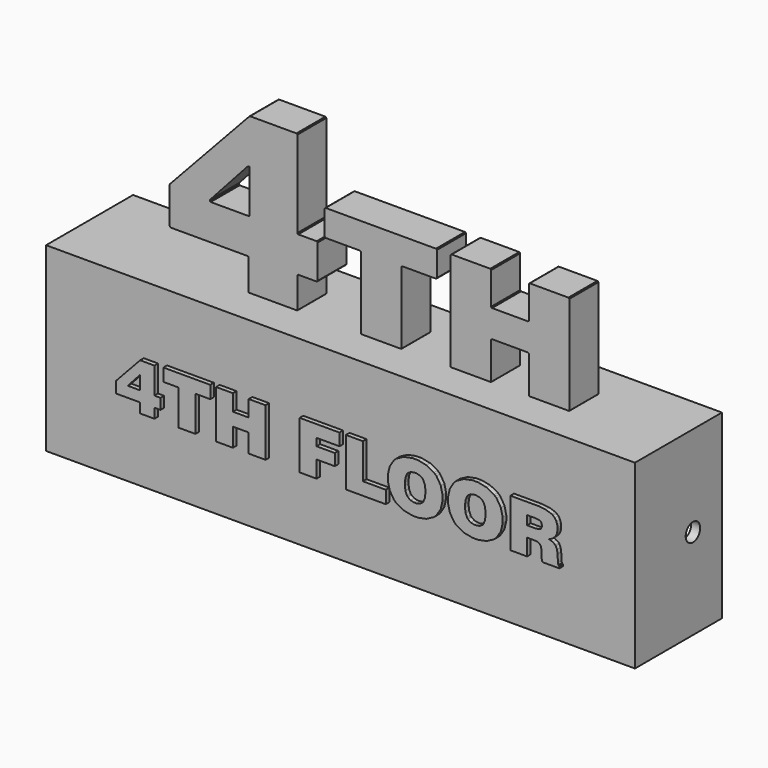
from build123d import *

# Parameters (mm, degrees)
F1_DEPTH      = 19.05
F1_DEPTH_BACK = 19.05
F2_DEPTH      = 6.35
F2_DEPTH_BACK = 6.35
F3_DEPTH      = 20.6375
F4_W          = 200.025
F4_H          = 57.15
F5_DEPTH      = 37.465
F6_W          = 200.025
F6_H          = 57.15
F7_DEPTH      = 0.635
F8_R          = 3.175
F9_DEPTH      = 206.376


with BuildPart() as f1:
    # F0 (on Front) → F1 (new body, two sides)
    with BuildSketch(Plane.XZ) as f1_sk:
        Polygon((-42.284904, 4.327271), (-42.3631372574, 4.469003), (-103.1875, 4.469003), (-103.1875, -59.030997), (103.1875, -59.030997), (103.1875, 4.469003), (69.9779450433, 4.469003), (69.89826, 4.325747), (69.693028, 4.210177), (69.62521, 4.210177), (56.223916, 4.210177), (56.155082, 4.210177), (55.951374, 4.325747), (55.8723972682, 4.469003), (42.5992081211, 4.469003), (42.519346, 4.325747), (42.315384, 4.210177), (42.248074, 4.210177), (28.846526, 4.210177), (28.777438, 4.210177), (28.572206, 4.325747), (28.4934063461, 4.469003), (11.1413081211, 4.469003), (11.061446, 4.325747), (10.857484, 4.210177), (10.790174, 4.210177), (-2.611374, 4.210177), (-2.680462, 4.210177), (-2.885694, 4.325747), (-2.9644936539, 4.469003), (-25.3306385099, 4.469003), (-25.409398, 4.327271), (-25.61336, 4.212971), (-25.681178, 4.212971), (-42.010838, 4.212971), (-42.079672, 4.212971), align=None)
        Polygon((-63.960248, -35.682809), (-69.082412, -35.682809), (-69.082412, -32.266763), (-77.35062, -32.266763), (-77.35062, -28.285313), (-68.95846, -19.266281), (-63.960248, -19.266281), (-63.960248, -28.539059), (-61.828426, -28.539059), (-61.828426, -32.266763), (-63.960248, -32.266763), align=None, mode=Mode.SUBTRACT)
        Polygon((-49.580546, -35.682809), (-55.506112, -35.682809), (-55.506112, -23.283291), (-60.817252, -23.283291), (-60.817252, -18.846165), (-44.379896, -18.846165), (-44.379896, -23.283291), (-49.580546, -23.283291), align=None, mode=Mode.SUBTRACT)
        Polygon((-36.428426, -35.682809), (-42.354246, -35.682809), (-42.354246, -18.846165), (-36.428426, -18.846165), (-36.428426, -24.562181), (-30.90926, -24.562181), (-30.90926, -18.846165), (-24.9809, -18.846165), (-24.9809, -35.682809), (-30.90926, -35.682809), (-30.90926, -29.159073), (-36.428426, -29.159073), align=None, mode=Mode.SUBTRACT)
        Polygon((-7.12724, -35.682809), (-13.052806, -35.682809), (-13.052806, -18.846165), (0.902716, -18.846165), (0.902716, -23.087457), (-7.12724, -23.087457), (-7.12724, -25.693497), (-0.740156, -25.693497), (-0.740156, -29.762831), (-7.12724, -29.762831), align=None, mode=Mode.SUBTRACT)
        Polygon((17.13865, -35.682809), (3.155696, -35.682809), (3.155696, -18.846165), (9.082532, -18.846165), (9.082532, -31.212409), (17.13865, -31.212409), align=None, mode=Mode.SUBTRACT)
        Polygon((17.851374, -28.197175), (17.851374, -27.278203), (17.851374, -26.357707), (18.494756, -23.597235), (19.995388, -21.183219), (20.42414, -20.786217), (20.852384, -20.389469), (23.466806, -19.001613), (26.45029, -18.409031), (27.444954, -18.409031), (28.435554, -18.409031), (31.41091, -19.001613), (34.015426, -20.389469), (34.444178, -20.786217), (34.872676, -21.183219), (36.372038, -23.597235), (37.01415, -26.357707), (37.01415, -27.278203), (37.01415, -28.197175), (36.372038, -30.954853), (34.872676, -33.370393), (34.444178, -33.767141), (34.015426, -34.164143), (31.41091, -35.554539), (28.435554, -36.151185), (27.444954, -36.151185), (26.45029, -36.151185), (23.466806, -35.554539), (20.852384, -34.164143), (20.42414, -33.767141), (19.995388, -33.370393), (18.494756, -30.954853), align=None, mode=Mode.SUBTRACT)
        Polygon((38.933628, -28.197175), (38.933628, -27.278203), (38.933628, -26.357707), (39.577518, -23.597235), (41.079166, -21.183219), (41.507918, -20.786217), (41.936416, -20.389469), (44.54906, -19.001613), (47.532544, -18.409031), (48.527716, -18.409031), (49.518316, -18.409031), (52.495196, -19.001613), (55.099712, -20.389469), (55.527956, -20.786217), (55.955184, -21.183219), (57.454546, -23.597235), (58.096912, -26.357707), (58.096912, -27.278203), (58.096912, -28.197175), (57.454546, -30.954853), (55.955184, -33.370393), (55.527956, -33.767141), (55.099712, -34.164143), (52.495196, -35.554539), (49.518316, -36.151185), (48.527716, -36.151185), (47.532544, -36.151185), (44.54906, -35.554539), (41.936416, -34.164143), (41.507918, -33.767141), (41.079166, -33.370393), (39.577518, -30.954853), align=None, mode=Mode.SUBTRACT)
        Polygon((66.653156, -35.684079), (60.804552, -35.684079), (60.804552, -18.844641), (69.633846, -18.844641), (70.521068, -18.844641), (73.18629, -19.128359), (75.257406, -19.788251), (75.553824, -19.977481), (75.764644, -20.112101), (76.328016, -20.633309), (76.882244, -21.471001), (77.214222, -22.491065), (77.325728, -23.392003), (77.325728, -23.692485), (77.325728, -24.043767), (77.142594, -25.102185), (76.71816, -26.080593), (76.597002, -26.251535), (76.47559, -26.420953), (75.674982, -27.163903), (74.609706, -27.764613), (74.357484, -27.863673), (74.614024, -27.913457), (75.687428, -28.306141), (76.479654, -28.890341), (76.597002, -29.037915), (76.714096, -29.182441), (77.137006, -30.114113), (77.340968, -31.319851), (77.34935, -31.602553), (77.44841, -33.946465), (77.44841, -33.958657), (77.459332, -33.994725), (77.462126, -34.000313), (77.467968, -34.168207), (77.612494, -34.767647), (77.906118, -35.047301), (77.987144, -35.055937), (77.987144, -35.684079), (72.013572, -35.684079), (71.98614, -35.582225), (71.784718, -34.700337), (71.771002, -34.625915), (71.755762, -34.549969), (71.689722, -34.078545), (71.689722, -33.923097), (71.689722, -32.241617), (71.689722, -31.963487), (71.54799, -31.132653), (71.219822, -30.495875), (71.126096, -30.407737), (71.0311, -30.318075), (70.354444, -30.007941), (69.465444, -29.875607), (69.17055, -29.875607), (66.653156, -29.875607), align=None, mode=Mode.SUBTRACT)
        Polygon((38.933628, -26.357707), (38.933628, -27.278203), (38.933628, -28.197175), (39.577518, -30.954853), (41.079166, -33.370393), (41.507918, -33.767141), (41.936416, -34.164143), (44.54906, -35.554539), (47.532544, -36.151185), (48.527716, -36.151185), (49.518316, -36.151185), (52.495196, -35.554539), (55.099712, -34.164143), (55.527956, -33.767141), (55.955184, -33.370393), (57.454546, -30.954853), (58.096912, -28.197175), (58.096912, -27.278203), (58.096912, -26.357707), (57.454546, -23.597235), (55.955184, -21.183219), (55.527956, -20.786217), (55.099712, -20.389469), (52.495196, -19.001613), (49.518316, -18.409031), (48.527716, -18.409031), (47.532544, -18.409031), (44.54906, -19.001613), (41.936416, -20.389469), (41.507918, -20.786217), (41.079166, -21.183219), (39.577518, -23.597235), align=None)
        Polygon((44.907454, -27.796363), (44.907454, -27.278203), (44.907454, -26.756995), (45.125132, -25.198451), (45.636434, -23.944707), (45.782484, -23.757001), (45.928534, -23.571073), (46.908466, -22.918039), (48.122332, -22.638385), (48.527716, -22.638385), (48.928528, -22.638385), (50.134266, -22.915245), (51.103022, -23.567009), (51.248056, -23.754715), (51.391312, -23.939119), (51.895502, -25.191847), (52.11191, -26.755725), (52.11191, -27.278203), (52.11191, -27.797887), (51.895502, -29.360241), (51.391312, -30.608651), (51.248056, -30.795087), (51.103022, -30.981015), (50.134266, -31.631509), (48.928528, -31.909639), (48.527716, -31.909639), (48.122332, -31.909639), (46.908466, -31.628715), (45.928534, -30.976697), (45.782484, -30.790769), (45.636434, -30.603317), (45.125132, -29.350589), align=None, mode=Mode.SUBTRACT)
        Polygon((17.851374, -26.357707), (17.851374, -27.278203), (17.851374, -28.197175), (18.494756, -30.954853), (19.995388, -33.370393), (20.42414, -33.767141), (20.852384, -34.164143), (23.466806, -35.554539), (26.45029, -36.151185), (27.444954, -36.151185), (28.435554, -36.151185), (31.41091, -35.554539), (34.015426, -34.164143), (34.444178, -33.767141), (34.872676, -33.370393), (36.372038, -30.954853), (37.01415, -28.197175), (37.01415, -27.278203), (37.01415, -26.357707), (36.372038, -23.597235), (34.872676, -21.183219), (34.444178, -20.786217), (34.015426, -20.389469), (31.41091, -19.001613), (28.435554, -18.409031), (27.444954, -18.409031), (26.45029, -18.409031), (23.466806, -19.001613), (20.852384, -20.389469), (20.42414, -20.786217), (19.995388, -21.183219), (18.494756, -23.597235), align=None)
        Polygon((23.823422, -27.796363), (23.823422, -27.278203), (23.823422, -26.756995), (24.0411, -25.198451), (24.552656, -23.944707), (24.699976, -23.757001), (24.846026, -23.571073), (25.825704, -22.918039), (27.039824, -22.638385), (27.444954, -22.638385), (27.846274, -22.638385), (29.052012, -22.915245), (30.019244, -23.567009), (30.164024, -23.754715), (30.307026, -23.939119), (30.811724, -25.191847), (31.027878, -26.755725), (31.027878, -27.278203), (31.027878, -27.797887), (30.811724, -29.360241), (30.307026, -30.608651), (30.164024, -30.795087), (30.019244, -30.981015), (29.052012, -31.631509), (27.846274, -31.909639), (27.444954, -31.909639), (27.039824, -31.909639), (25.825704, -31.628715), (24.846026, -30.976697), (24.699976, -30.790769), (24.552656, -30.603317), (24.0411, -29.350589), align=None, mode=Mode.SUBTRACT)
        Polygon((60.804552, -18.844641), (60.804552, -35.684079), (66.653156, -35.684079), (66.653156, -29.875607), (69.17055, -29.875607), (69.465444, -29.875607), (70.354444, -30.007941), (71.0311, -30.318075), (71.126096, -30.407737), (71.219822, -30.495875), (71.54799, -31.132653), (71.689722, -31.963487), (71.689722, -32.241617), (71.689722, -33.923097), (71.689722, -34.078545), (71.755762, -34.549969), (71.771002, -34.625915), (71.784718, -34.700337), (71.98614, -35.582225), (72.013572, -35.684079), (77.987144, -35.684079), (77.987144, -35.055937), (77.906118, -35.047301), (77.612494, -34.767647), (77.467968, -34.168207), (77.462126, -34.000313), (77.459332, -33.994725), (77.44841, -33.958657), (77.44841, -33.946465), (77.34935, -31.602553), (77.340968, -31.319851), (77.137006, -30.114113), (76.714096, -29.182441), (76.597002, -29.037915), (76.479654, -28.890341), (75.687428, -28.306141), (74.614024, -27.913457), (74.357484, -27.863673), (74.609706, -27.764613), (75.674982, -27.163903), (76.47559, -26.420953), (76.597002, -26.251535), (76.71816, -26.080593), (77.142594, -25.102185), (77.325728, -24.043767), (77.325728, -23.692485), (77.325728, -23.392003), (77.214222, -22.491065), (76.882244, -21.471001), (76.328016, -20.633309), (75.764644, -20.112101), (75.553824, -19.977481), (75.257406, -19.788251), (73.18629, -19.128359), (70.521068, -18.844641), (69.633846, -18.844641), align=None)
        Polygon((69.346826, -26.079069), (66.653156, -26.079069), (66.653156, -22.926167), (69.196712, -22.926167), (69.523356, -22.926167), (70.504304, -23.013035), (71.21144, -23.216997), (71.301102, -23.274909), (71.39051, -23.332567), (71.704962, -23.759795), (71.84009, -24.326469), (71.84009, -24.515191), (71.84009, -24.698325), (71.704962, -25.252553), (71.39051, -25.673939), (71.301102, -25.733375), (71.21144, -25.789763), (70.543166, -25.992201), (69.646038, -26.079069), align=None, mode=Mode.SUBTRACT)
        Polygon((-42.354246, -18.846165), (-42.354246, -35.682809), (-36.428426, -35.682809), (-36.428426, -29.159073), (-30.90926, -29.159073), (-30.90926, -35.682809), (-24.9809, -35.682809), (-24.9809, -18.846165), (-30.90926, -18.846165), (-30.90926, -24.562181), (-36.428426, -24.562181), (-36.428426, -18.846165), align=None)
        Polygon((-69.082412, -32.266763), (-69.082412, -35.682809), (-63.960248, -35.682809), (-63.960248, -32.266763), (-61.828426, -32.266763), (-61.828426, -28.539059), (-63.960248, -28.539059), (-63.960248, -19.266281), (-68.95846, -19.266281), (-77.35062, -28.285313), (-77.35062, -32.266763), align=None)
        Polygon((-68.95846, -28.539059), (-73.292208, -28.539059), (-68.95846, -23.746079), align=None, mode=Mode.SUBTRACT)
        Polygon((-13.052806, -18.846165), (-13.052806, -35.682809), (-7.12724, -35.682809), (-7.12724, -29.762831), (-0.740156, -29.762831), (-0.740156, -25.693497), (-7.12724, -25.693497), (-7.12724, -23.087457), (0.902716, -23.087457), (0.902716, -18.846165), align=None)
        Polygon((-55.506112, -23.283291), (-55.506112, -35.682809), (-49.580546, -35.682809), (-49.580546, -23.283291), (-44.379896, -23.283291), (-44.379896, -18.846165), (-60.817252, -18.846165), (-60.817252, -23.283291), align=None)
        Polygon((3.155696, -18.846165), (3.155696, -35.682809), (17.13865, -35.682809), (17.13865, -31.212409), (9.082532, -31.212409), (9.082532, -18.846165), align=None)
        Polygon((44.907454, -26.756995), (44.907454, -27.278203), (44.907454, -27.796363), (45.125132, -29.350589), (45.636434, -30.603317), (45.782484, -30.790769), (45.928534, -30.976697), (46.908466, -31.628715), (48.122332, -31.909639), (48.527716, -31.909639), (48.928528, -31.909639), (50.134266, -31.631509), (51.103022, -30.981015), (51.248056, -30.795087), (51.391312, -30.608651), (51.895502, -29.360241), (52.11191, -27.797887), (52.11191, -27.278203), (52.11191, -26.755725), (51.895502, -25.191847), (51.391312, -23.939119), (51.248056, -23.754715), (51.103022, -23.567009), (50.134266, -22.915245), (48.928528, -22.638385), (48.527716, -22.638385), (48.122332, -22.638385), (46.908466, -22.918039), (45.928534, -23.571073), (45.782484, -23.757001), (45.636434, -23.944707), (45.125132, -25.198451), align=None)
        Polygon((23.823422, -26.756995), (23.823422, -27.278203), (23.823422, -27.796363), (24.0411, -29.350589), (24.552656, -30.603317), (24.699976, -30.790769), (24.846026, -30.976697), (25.825704, -31.628715), (27.039824, -31.909639), (27.444954, -31.909639), (27.846274, -31.909639), (29.052012, -31.631509), (30.019244, -30.981015), (30.164024, -30.795087), (30.307026, -30.608651), (30.811724, -29.360241), (31.027878, -27.797887), (31.027878, -27.278203), (31.027878, -26.755725), (30.811724, -25.191847), (30.307026, -23.939119), (30.164024, -23.754715), (30.019244, -23.567009), (29.052012, -22.915245), (27.846274, -22.638385), (27.444954, -22.638385), (27.039824, -22.638385), (25.825704, -22.918039), (24.846026, -23.571073), (24.699976, -23.757001), (24.552656, -23.944707), (24.0411, -25.198451), align=None)
        Polygon((66.653156, -22.926167), (66.653156, -26.079069), (69.346826, -26.079069), (69.646038, -26.079069), (70.543166, -25.992201), (71.21144, -25.789763), (71.301102, -25.733375), (71.39051, -25.673939), (71.704962, -25.252553), (71.84009, -24.698325), (71.84009, -24.515191), (71.84009, -24.326469), (71.704962, -23.759795), (71.39051, -23.332567), (71.301102, -23.274909), (71.21144, -23.216997), (70.504304, -23.013035), (69.523356, -22.926167), (69.196712, -22.926167), align=None)
        Polygon((-68.95846, -23.746079), (-73.292208, -28.539059), (-68.95846, -28.539059), align=None)
        Polygon((-25.3306385099, 4.469003), (-42.3631372574, 4.469003), (-42.284904, 4.327271), (-42.079672, 4.212971), (-42.010838, 4.212971), (-25.681178, 4.212971), (-25.61336, 4.212971), (-25.409398, 4.327271), align=None)
        Polygon((11.1413081211, 4.469003), (-2.9644936539, 4.469003), (-2.885694, 4.325747), (-2.680462, 4.210177), (-2.611374, 4.210177), (10.790174, 4.210177), (10.857484, 4.210177), (11.061446, 4.325747), align=None)
        Polygon((42.5992081211, 4.469003), (28.4934063461, 4.469003), (28.572206, 4.325747), (28.777438, 4.210177), (28.846526, 4.210177), (42.248074, 4.210177), (42.315384, 4.210177), (42.519346, 4.325747), align=None)
        Polygon((69.89826, 4.325747), (69.9779450433, 4.469003), (55.8723972682, 4.469003), (55.951374, 4.325747), (56.155082, 4.210177), (56.223916, 4.210177), (69.62521, 4.210177), (69.693028, 4.210177), align=None)
    extrude(amount=F1_DEPTH)
    extrude(f1_sk.sketch, amount=-F1_DEPTH_BACK)


with BuildPart() as f2:
    # F0 (on Front) → F2 (new body, two sides)
    with BuildSketch(Plane.XZ) as f2_sk:
        Polygon((-42.398188, 15.241143), (-42.398188, 4.599813), (-42.398188, 4.532503), (-42.3631372574, 4.469003), (-25.3306385099, 4.469003), (-25.295352, 4.532503), (-25.295352, 4.599813), (-25.295352, 15.241143), (-25.295352, 15.310231), (-25.182322, 15.514193), (-24.97709, 15.625699), (-24.907748, 15.625699), (-18.571972, 15.625699), (-18.504154, 15.625699), (-18.298922, 15.738983), (-18.184622, 15.945485), (-18.184622, 16.013049), (-18.184622, 27.682063), (-18.184622, 27.750897), (-18.298922, 27.957653), (-18.504154, 28.070937), (-18.571972, 28.070937), (-24.907748, 28.070937), (-24.97709, 28.070937), (-25.182322, 28.185237), (-25.295352, 28.390469), (-25.295352, 28.458033), (-25.295352, 58.644155), (-25.295352, 58.712735), (-25.409398, 58.918221), (-25.61336, 59.030997), (-25.681178, 59.030997), (-41.816528, 59.030997), (-41.882822, 59.030997), (-42.081196, 58.929143), (-42.098976, 58.908569), (-69.906388, 29.029787), (-69.924422, 29.012007), (-70.01129, 28.831413), (-70.01129, 28.765119), (-70.01129, 16.013049), (-70.01129, 15.945485), (-69.89826, 15.738983), (-69.693028, 15.625699), (-69.62394, 15.625699), (-42.785284, 15.625699), (-42.717974, 15.625699), (-42.512488, 15.514193), (-42.398188, 15.310231), align=None)
        Polygon((-42.370248, 28.070937), (-55.589932, 28.070937), (-55.675276, 28.070937), (-55.929022, 28.264993), (-55.944262, 28.299537), (-55.960772, 28.335605), (-55.90286, 28.688157), (-55.876952, 28.717113), (-42.657268, 43.328463), (-42.629582, 43.358943), (-42.269918, 43.444287), (-42.23131, 43.429047), (-42.193972, 43.415331), (-41.984676, 43.157521), (-41.984676, 43.066335), (-41.984676, 28.458033), (-41.984676, 28.390469), (-42.097706, 28.185237), (-42.302938, 28.070937), align=None, mode=Mode.SUBTRACT)
    extrude(amount=F2_DEPTH)
    extrude(f2_sk.sketch, amount=-F2_DEPTH_BACK)


with BuildPart() as f2b:
    # F0 (on Front) → F2, piece 2 (new body, two sides)
    with BuildSketch(Plane.XZ) as f2_2_sk:
        Polygon((-2.998724, 4.531233), (-2.9644936539, 4.469003), (11.1413081211, 4.469003), (11.176, 4.531233), (11.176, 4.598543), (11.176, 29.710761), (11.176, 29.779341), (11.288776, 29.984827), (11.494262, 30.096587), (11.563096, 30.096587), (23.225506, 30.096587), (23.292816, 30.096587), (23.498302, 30.210887), (23.611332, 30.416119), (23.611332, 30.483683), (23.611332, 38.971093), (23.611332, 39.039927), (23.498302, 39.245159), (23.292816, 39.358443), (23.225506, 39.358443), (-15.312644, 39.358443), (-15.381732, 39.358443), (-15.587218, 39.245159), (-15.699994, 39.039927), (-15.699994, 38.971093), (-15.699994, 30.483683), (-15.699994, 30.416119), (-15.587218, 30.210887), (-15.381732, 30.096587), (-15.312644, 30.096587), (-3.38455, 30.096587), (-3.316732, 30.096587), (-3.113024, 29.984827), (-2.998724, 29.779341), (-2.998724, 29.710761), (-2.998724, 4.598543), align=None)
    extrude(amount=F2_DEPTH)
    extrude(f2_2_sk.sketch, amount=-F2_DEPTH_BACK)


with BuildPart() as f2c:
    # F0 (on Front) → F2, piece 3 (new body, two sides)
    with BuildSketch(Plane.XZ) as f2_3_sk:
        Polygon((28.459176, 4.531233), (28.4934063461, 4.469003), (42.5992081211, 4.469003), (42.6339, 4.531233), (42.6339, 4.598543), (42.6339, 17.443577), (42.6339, 17.512411), (42.746676, 17.716119), (42.950638, 17.829149), (43.019472, 17.829149), (55.449724, 17.829149), (55.517034, 17.829149), (55.72379, 17.716119), (55.83809, 17.512411), (55.83809, 17.443577), (55.83809, 4.598543), (55.83809, 4.531233), (55.8723972682, 4.469003), (69.9779450433, 4.469003), (70.01256, 4.531233), (70.01256, 4.598543), (70.01256, 38.971093), (70.01256, 39.039927), (69.89826, 39.245159), (69.693028, 39.358443), (69.62521, 39.358443), (56.223916, 39.358443), (56.155082, 39.358443), (55.951374, 39.245159), (55.83809, 39.039927), (55.83809, 38.971093), (55.83809, 27.811603), (55.83809, 27.744293), (55.72379, 27.540331), (55.517034, 27.425777), (55.449724, 27.425777), (43.019472, 27.425777), (42.950638, 27.425777), (42.746676, 27.540331), (42.6339, 27.744293), (42.6339, 27.811603), (42.6339, 38.971093), (42.6339, 39.039927), (42.519346, 39.245159), (42.315384, 39.358443), (42.248074, 39.358443), (28.846526, 39.358443), (28.777438, 39.358443), (28.572206, 39.245159), (28.459176, 39.039927), (28.459176, 38.971093), (28.459176, 4.598543), align=None)
    extrude(amount=F2_DEPTH)
    extrude(f2_3_sk.sketch, amount=-F2_DEPTH_BACK)


with BuildPart() as f3:
    # F0 (on Front) → F3 (new body)
    with BuildSketch(Plane.XZ):
        Polygon((-69.082412, -32.266763), (-69.082412, -35.682809), (-63.960248, -35.682809), (-63.960248, -32.266763), (-61.828426, -32.266763), (-61.828426, -28.539059), (-63.960248, -28.539059), (-63.960248, -19.266281), (-68.95846, -19.266281), (-77.35062, -28.285313), (-77.35062, -32.266763), align=None)
        Polygon((-68.95846, -28.539059), (-73.292208, -28.539059), (-68.95846, -23.746079), align=None, mode=Mode.SUBTRACT)
    extrude(amount=F3_DEPTH)


with BuildPart() as f3b:
    # F0 (on Front) → F3, piece 2 (new body)
    with BuildSketch(Plane.XZ):
        Polygon((-55.506112, -23.283291), (-55.506112, -35.682809), (-49.580546, -35.682809), (-49.580546, -23.283291), (-44.379896, -23.283291), (-44.379896, -18.846165), (-60.817252, -18.846165), (-60.817252, -23.283291), align=None)
    extrude(amount=F3_DEPTH)


with BuildPart() as f3c:
    # F0 (on Front) → F3, piece 3 (new body)
    with BuildSketch(Plane.XZ):
        Polygon((-42.354246, -18.846165), (-42.354246, -35.682809), (-36.428426, -35.682809), (-36.428426, -29.159073), (-30.90926, -29.159073), (-30.90926, -35.682809), (-24.9809, -35.682809), (-24.9809, -18.846165), (-30.90926, -18.846165), (-30.90926, -24.562181), (-36.428426, -24.562181), (-36.428426, -18.846165), align=None)
    extrude(amount=F3_DEPTH)


with BuildPart() as f3d:
    # F0 (on Front) → F3, piece 4 (new body)
    with BuildSketch(Plane.XZ):
        Polygon((-13.052806, -18.846165), (-13.052806, -35.682809), (-7.12724, -35.682809), (-7.12724, -29.762831), (-0.740156, -29.762831), (-0.740156, -25.693497), (-7.12724, -25.693497), (-7.12724, -23.087457), (0.902716, -23.087457), (0.902716, -18.846165), align=None)
    extrude(amount=F3_DEPTH)


with BuildPart() as f3e:
    # F0 (on Front) → F3, piece 5 (new body)
    with BuildSketch(Plane.XZ):
        Polygon((3.155696, -18.846165), (3.155696, -35.682809), (17.13865, -35.682809), (17.13865, -31.212409), (9.082532, -31.212409), (9.082532, -18.846165), align=None)
    extrude(amount=F3_DEPTH)


with BuildPart() as f3f:
    # F0 (on Front) → F3, piece 6 (new body)
    with BuildSketch(Plane.XZ):
        Polygon((17.851374, -26.357707), (17.851374, -27.278203), (17.851374, -28.197175), (18.494756, -30.954853), (19.995388, -33.370393), (20.42414, -33.767141), (20.852384, -34.164143), (23.466806, -35.554539), (26.45029, -36.151185), (27.444954, -36.151185), (28.435554, -36.151185), (31.41091, -35.554539), (34.015426, -34.164143), (34.444178, -33.767141), (34.872676, -33.370393), (36.372038, -30.954853), (37.01415, -28.197175), (37.01415, -27.278203), (37.01415, -26.357707), (36.372038, -23.597235), (34.872676, -21.183219), (34.444178, -20.786217), (34.015426, -20.389469), (31.41091, -19.001613), (28.435554, -18.409031), (27.444954, -18.409031), (26.45029, -18.409031), (23.466806, -19.001613), (20.852384, -20.389469), (20.42414, -20.786217), (19.995388, -21.183219), (18.494756, -23.597235), align=None)
        Polygon((23.823422, -27.796363), (23.823422, -27.278203), (23.823422, -26.756995), (24.0411, -25.198451), (24.552656, -23.944707), (24.699976, -23.757001), (24.846026, -23.571073), (25.825704, -22.918039), (27.039824, -22.638385), (27.444954, -22.638385), (27.846274, -22.638385), (29.052012, -22.915245), (30.019244, -23.567009), (30.164024, -23.754715), (30.307026, -23.939119), (30.811724, -25.191847), (31.027878, -26.755725), (31.027878, -27.278203), (31.027878, -27.797887), (30.811724, -29.360241), (30.307026, -30.608651), (30.164024, -30.795087), (30.019244, -30.981015), (29.052012, -31.631509), (27.846274, -31.909639), (27.444954, -31.909639), (27.039824, -31.909639), (25.825704, -31.628715), (24.846026, -30.976697), (24.699976, -30.790769), (24.552656, -30.603317), (24.0411, -29.350589), align=None, mode=Mode.SUBTRACT)
    extrude(amount=F3_DEPTH)


with BuildPart() as f3g:
    # F0 (on Front) → F3, piece 7 (new body)
    with BuildSketch(Plane.XZ):
        Polygon((38.933628, -26.357707), (38.933628, -27.278203), (38.933628, -28.197175), (39.577518, -30.954853), (41.079166, -33.370393), (41.507918, -33.767141), (41.936416, -34.164143), (44.54906, -35.554539), (47.532544, -36.151185), (48.527716, -36.151185), (49.518316, -36.151185), (52.495196, -35.554539), (55.099712, -34.164143), (55.527956, -33.767141), (55.955184, -33.370393), (57.454546, -30.954853), (58.096912, -28.197175), (58.096912, -27.278203), (58.096912, -26.357707), (57.454546, -23.597235), (55.955184, -21.183219), (55.527956, -20.786217), (55.099712, -20.389469), (52.495196, -19.001613), (49.518316, -18.409031), (48.527716, -18.409031), (47.532544, -18.409031), (44.54906, -19.001613), (41.936416, -20.389469), (41.507918, -20.786217), (41.079166, -21.183219), (39.577518, -23.597235), align=None)
        Polygon((44.907454, -27.796363), (44.907454, -27.278203), (44.907454, -26.756995), (45.125132, -25.198451), (45.636434, -23.944707), (45.782484, -23.757001), (45.928534, -23.571073), (46.908466, -22.918039), (48.122332, -22.638385), (48.527716, -22.638385), (48.928528, -22.638385), (50.134266, -22.915245), (51.103022, -23.567009), (51.248056, -23.754715), (51.391312, -23.939119), (51.895502, -25.191847), (52.11191, -26.755725), (52.11191, -27.278203), (52.11191, -27.797887), (51.895502, -29.360241), (51.391312, -30.608651), (51.248056, -30.795087), (51.103022, -30.981015), (50.134266, -31.631509), (48.928528, -31.909639), (48.527716, -31.909639), (48.122332, -31.909639), (46.908466, -31.628715), (45.928534, -30.976697), (45.782484, -30.790769), (45.636434, -30.603317), (45.125132, -29.350589), align=None, mode=Mode.SUBTRACT)
    extrude(amount=F3_DEPTH)


with BuildPart() as f3h:
    # F0 (on Front) → F3, piece 8 (new body)
    with BuildSketch(Plane.XZ):
        Polygon((60.804552, -18.844641), (60.804552, -35.684079), (66.653156, -35.684079), (66.653156, -29.875607), (69.17055, -29.875607), (69.465444, -29.875607), (70.354444, -30.007941), (71.0311, -30.318075), (71.126096, -30.407737), (71.219822, -30.495875), (71.54799, -31.132653), (71.689722, -31.963487), (71.689722, -32.241617), (71.689722, -33.923097), (71.689722, -34.078545), (71.755762, -34.549969), (71.771002, -34.625915), (71.784718, -34.700337), (71.98614, -35.582225), (72.013572, -35.684079), (77.987144, -35.684079), (77.987144, -35.055937), (77.906118, -35.047301), (77.612494, -34.767647), (77.467968, -34.168207), (77.462126, -34.000313), (77.459332, -33.994725), (77.44841, -33.958657), (77.44841, -33.946465), (77.34935, -31.602553), (77.340968, -31.319851), (77.137006, -30.114113), (76.714096, -29.182441), (76.597002, -29.037915), (76.479654, -28.890341), (75.687428, -28.306141), (74.614024, -27.913457), (74.357484, -27.863673), (74.609706, -27.764613), (75.674982, -27.163903), (76.47559, -26.420953), (76.597002, -26.251535), (76.71816, -26.080593), (77.142594, -25.102185), (77.325728, -24.043767), (77.325728, -23.692485), (77.325728, -23.392003), (77.214222, -22.491065), (76.882244, -21.471001), (76.328016, -20.633309), (75.764644, -20.112101), (75.553824, -19.977481), (75.257406, -19.788251), (73.18629, -19.128359), (70.521068, -18.844641), (69.633846, -18.844641), align=None)
        Polygon((69.346826, -26.079069), (66.653156, -26.079069), (66.653156, -22.926167), (69.196712, -22.926167), (69.523356, -22.926167), (70.504304, -23.013035), (71.21144, -23.216997), (71.301102, -23.274909), (71.39051, -23.332567), (71.704962, -23.759795), (71.84009, -24.326469), (71.84009, -24.515191), (71.84009, -24.698325), (71.704962, -25.252553), (71.39051, -25.673939), (71.301102, -25.733375), (71.21144, -25.789763), (70.543166, -25.992201), (69.646038, -26.079069), align=None, mode=Mode.SUBTRACT)
    extrude(amount=F3_DEPTH)


with BuildPart() as f5_tool:
    # F4 (on face) → F5 (new body)
    with BuildSketch(Plane(origin=(0, 19.05, 0), x_dir=(-1, 0, 0), z_dir=(0, 1, 0))):
        with Locations((0, -27.280997)):
            Rectangle(F4_W, F4_H)
    extrude(amount=-F5_DEPTH)


with BuildPart() as f1_1:
    add(f1.part)

    # F5: cut by f5_tool
    add(f5_tool.part, mode=Mode.SUBTRACT)

    # F8 (on face) → F9 (cut, through all)
    with BuildSketch(Plane.YZ.offset(103.1875)):
        with Locations((6.35, -27.280997)):
            Circle(F8_R)
    extrude(amount=-F9_DEPTH, mode=Mode.SUBTRACT)


with BuildPart() as f3_1:
    add(f3.part)

    # F5: cut by f5_tool
    add(f5_tool.part, mode=Mode.SUBTRACT)


with BuildPart() as f3b_1:
    add(f3b.part)

    # F5: cut by f5_tool
    add(f5_tool.part, mode=Mode.SUBTRACT)


with BuildPart() as f3c_1:
    add(f3c.part)

    # F5: cut by f5_tool
    add(f5_tool.part, mode=Mode.SUBTRACT)


with BuildPart() as f3d_1:
    add(f3d.part)

    # F5: cut by f5_tool
    add(f5_tool.part, mode=Mode.SUBTRACT)


with BuildPart() as f3e_1:
    add(f3e.part)

    # F5: cut by f5_tool
    add(f5_tool.part, mode=Mode.SUBTRACT)


with BuildPart() as f3f_1:
    add(f3f.part)

    # F5: cut by f5_tool
    add(f5_tool.part, mode=Mode.SUBTRACT)


with BuildPart() as f3g_1:
    add(f3g.part)

    # F5: cut by f5_tool
    add(f5_tool.part, mode=Mode.SUBTRACT)


with BuildPart() as f3h_1:
    add(f3h.part)

    # F5: cut by f5_tool
    add(f5_tool.part, mode=Mode.SUBTRACT)


with BuildPart() as f7:
    # F6 (on face) → F7 (new body)
    with BuildSketch(Plane(origin=(0, -18.415, 0), x_dir=(-1, 0, 0), z_dir=(0, 1, 0))):
        with Locations((0, -27.280997)):
            Rectangle(F6_W, F6_H)
    extrude(amount=F7_DEPTH)


solid = Compound([f2.part, f2b.part, f2c.part, f1_1.part, f3_1.part, f3b_1.part, f3c_1.part, f3d_1.part, f3e_1.part, f3f_1.part, f3g_1.part, f3h_1.part, f7.part])
